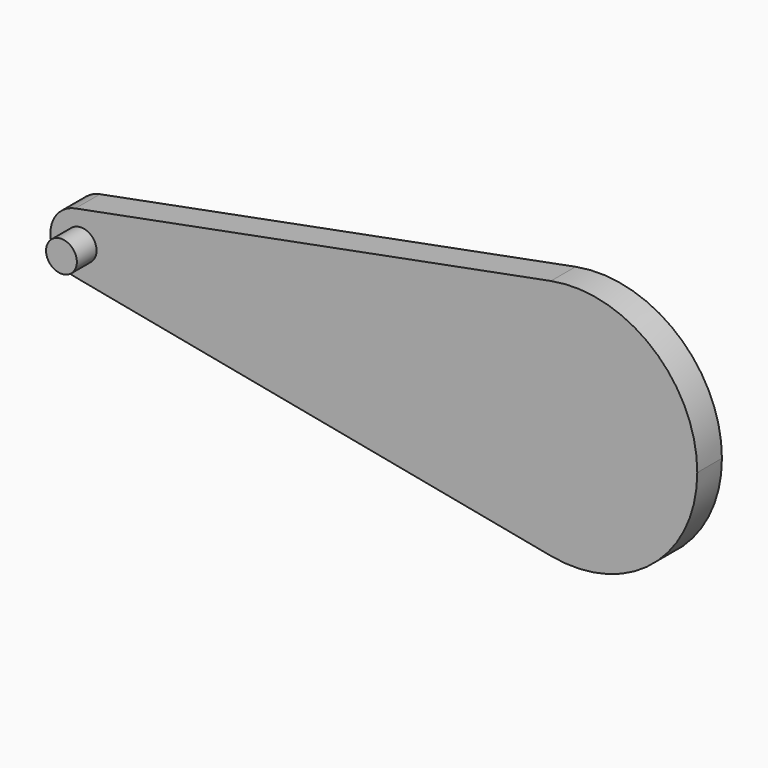
from build123d import *

# Parameters (mm, degrees)
F1_DEPTH = 3.175
F2_R     = 1.5875
F3_DEPTH = 2.54


with BuildPart() as f1:
    # F0 (on Front) → F1 (new body)
    with BuildSketch(Plane.XZ):
        with BuildLine():
            ThreePointArc((-0.595313, -3.11869), (2.023673, -2.446502), (3.175, 0))
            ThreePointArc((3.175, 0), (2.023673, 2.446502), (-0.595313, 3.11869))
            ThreePointArc((-0.595313, 3.11869), (-3.175, 0), (-0.595313, -3.11869))
        make_face()
        with BuildLine():
            ThreePointArc((-0.595313, 3.11869), (2.023673, 2.446502), (3.175, 0))
            ThreePointArc((3.175, 0), (2.023673, -2.446502), (-0.595313, -3.11869))
            Line((-0.595313, -3.11869), (48.41875, -12.47476))
            ThreePointArc((48.41875, -12.47476), (38.1, 0), (48.41875, 12.47476))
            Line((48.41875, 12.47476), (-0.595313, 3.11869))
        make_face()
        with BuildLine():
            ThreePointArc((63.5, 0), (58.894693, 9.786007), (48.41875, 12.47476))
            ThreePointArc((48.41875, 12.47476), (38.1, 0), (48.41875, -12.47476))
            ThreePointArc((48.41875, -12.47476), (58.894693, -9.786007), (63.5, 0))
        make_face()
    extrude(amount=F1_DEPTH)

    # F2 (on face) → F3 (join)
    with BuildSketch(Plane.XZ.offset(3.175)):
        Circle(F2_R)
    extrude(amount=F3_DEPTH)


solid = f1.part
